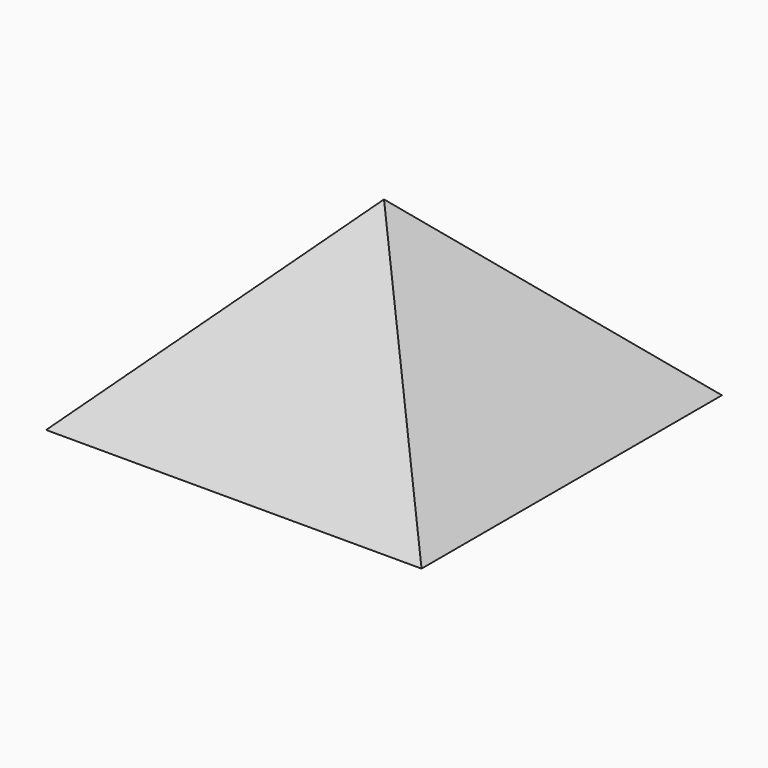
from build123d import *

# Parameters (mm, degrees)
F0_W          = 25
F0_H          = 25
F1_DEPTH      = 25
F3_DEPTH      = 12.501
F3_DEPTH_BACK = 12.501
F5_DEPTH      = 12.501
F5_DEPTH_BACK = 12.501


with BuildPart() as f1:
    # F0 (on Top) → F1 (new body)
    with BuildSketch(Plane.XY):
        Rectangle(F0_W, F0_H)
    extrude(amount=F1_DEPTH)

    # F2 (on Right) → F3 (cut, two sides)
    with BuildSketch(Plane.YZ) as f3_sk:
        Polygon((0, 12.5), (12.5, 0), (12.5, 25), (-12.5, 25), (-12.5, 0), align=None)
    extrude(amount=-F3_DEPTH, mode=Mode.SUBTRACT)
    extrude(f3_sk.sketch, amount=F3_DEPTH_BACK, mode=Mode.SUBTRACT)

    # F4 (on Front) → F5 (cut, two sides)
    with BuildSketch(Plane.XZ) as f5_sk:
        Polygon((0, 12.5), (12.5, 0), (12.5, 25), (-12.5, 25), (-12.5, 0), align=None)
    extrude(amount=-F5_DEPTH, mode=Mode.SUBTRACT)
    extrude(f5_sk.sketch, amount=F5_DEPTH_BACK, mode=Mode.SUBTRACT)


solid = f1.part
